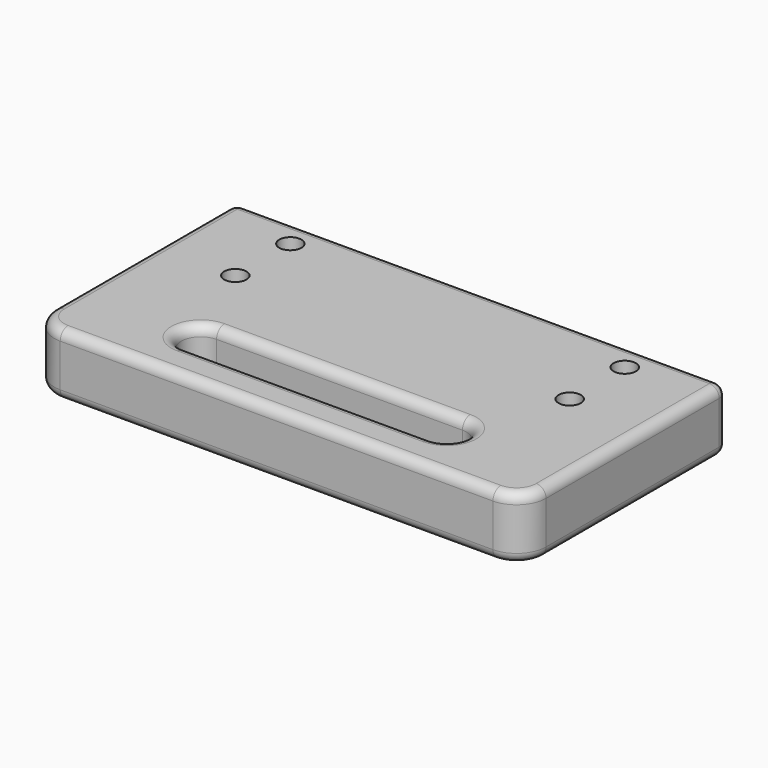
from build123d import *

# Parameters (mm, degrees)
F0_W     = 50
F0_H     = 26
F1_DEPTH = 6.35
F2_R     = 1.1303
F3_DEPTH = 6.351
F5_DEPTH = 6.351
F6_R     = 1
F7_R     = 3
F8_R     = 1


with BuildPart() as f1:
    # F0 (on Top) → F1 (new body)
    with BuildSketch(Plane.XY):
        Rectangle(F0_W, F0_H)
    extrude(amount=F1_DEPTH)

    # F2 (on face) → F3 (cut, through all)
    with BuildSketch(Plane.XY.offset(6.35)):
        with Locations((-17, 10)):
            Circle(F2_R)
        with Locations((-17, 3)):
            Circle(F2_R)
        with Locations((17, 3)):
            Circle(F2_R)
        with Locations((17, 10)):
            Circle(F2_R)
    extrude(amount=-F3_DEPTH, mode=Mode.SUBTRACT)

    # F4 (on face) → F5 (cut, through all)
    with BuildSketch(Plane.XY.offset(6.35)):
        with BuildLine():
            Line((12.5, -5), (-12.5, -5))
            ThreePointArc((-12.5, -5), (-14.5, -7), (-12.5, -9))
            Line((-12.5, -9), (12.5, -9))
            ThreePointArc((12.5, -9), (14.5, -7), (12.5, -5))
        make_face()
    extrude(amount=-F5_DEPTH, mode=Mode.SUBTRACT)

    # F6
    f6_edges = [f1.edges().sort_by_distance(p)[0] for p in [
        (-25, 13, 3.175),
        (25, 13, 3.175),
        (0, -5, 6.35),
        (0, -5, 0),
    ]]
    fillet(f6_edges, radius=F6_R)

    # F7
    f7_edges = [f1.edges().sort_by_distance(p)[0] for p in [
        (-25, -13, 3.175),
        (25, -13, 3.175),
    ]]
    fillet(f7_edges, radius=F7_R)

    # F8
    f8_edges = [f1.edges().sort_by_distance(p)[0] for p in [
        (-25, 1, 6.35),
        (-25, 1, 0),
    ]]
    fillet(f8_edges, radius=F8_R)


solid = f1.part
